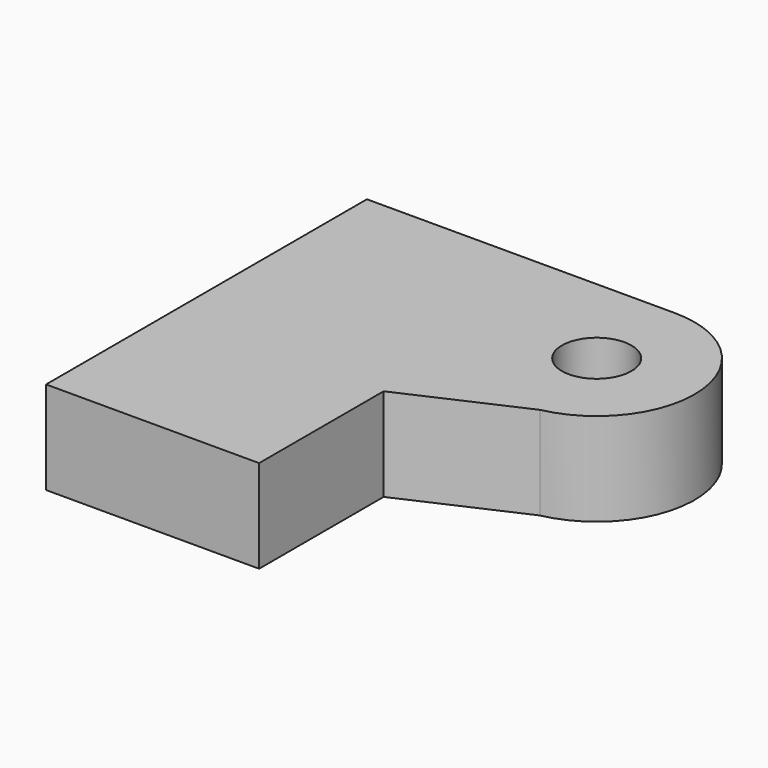
from build123d import *

# Parameters (mm, degrees)
F2_R     = 9.5
F2_W     = 9.6981804818
F2_H     = 42.5008572638
F2_W_2   = 26.8126223236
F3_DEPTH = 25.4


with BuildPart() as f3:
    # F2 (on face) → F3 (new body)
    with BuildSketch(Plane.XY):
        with BuildLine():
            Line((25.956897065, 52.9121421278), (-58.1890903413, 52.9121421278))
            Line((-58.1890903413, 52.9121421278), (-58.1890903413, -14.11941275))
            Line((-58.1890903413, -14.11941275), (-36.5108028054, -14.11941275))
            Line((-36.5108028054, -14.11941275), (-26.8126223236, -14.11941275))
            Line((-26.8126223236, -14.11941275), (0, -14.11941275))
            Line((0, -14.11941275), (31.3764661551, 0))
            ThreePointArc((31.3764661551, 0), (52.5513819899, 28.9024808802), (25.956897065, 52.9121421278))
        make_face()
        with Locations((25.956897065, 26.1785191832)):
            Circle(F2_R, mode=Mode.SUBTRACT)
        Polygon((-36.5108028054, -14.11941275), (-58.1890903413, -14.11941275), (-58.1890903413, -45.0878578722), (-58.1890903413, -56.6202700138), (-36.5108028054, -56.6202700138), align=None)
        with Locations((-31.6617125645, -35.3698413819)):
            Rectangle(F2_W, F2_H)
        with Locations((-13.4063111618, -35.3698413819)):
            Rectangle(F2_W_2, F2_H)
    extrude(amount=F3_DEPTH)


solid = f3.part
